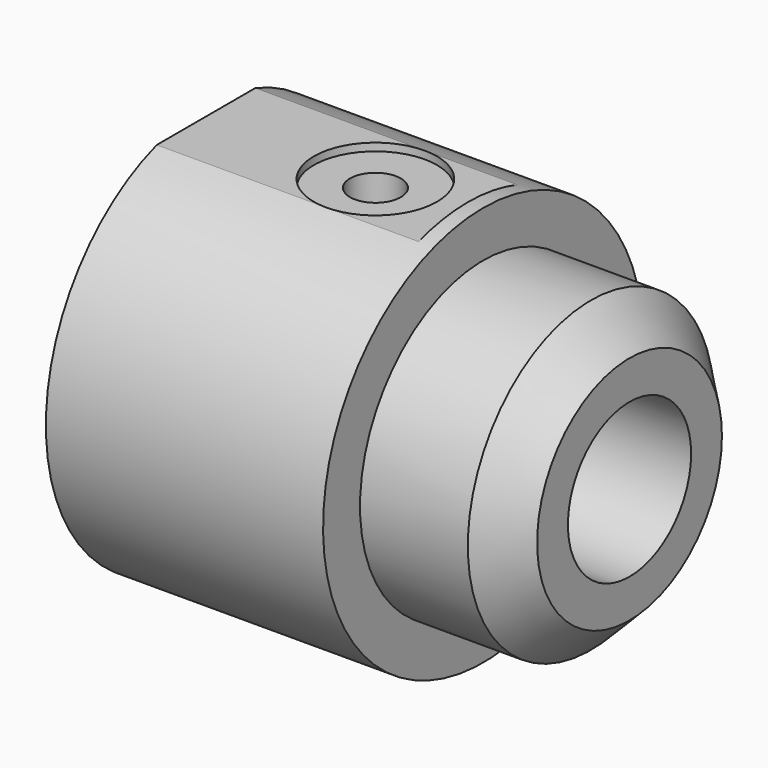
from build123d import *

# Parameters (mm, degrees)
F3_D      = 3.3
F3_DEPTH  = 7
F3_TIP    = 0.9914200214
F4_R      = 10
F4_R_2    = 5
F5_DEPTH  = 9.5
F6_SIZE   = 2.5
F8_DEPTH  = 17
F10_D     = 3.3
F10_DEPTH = 5.2
F10_TIP   = 0.9914200214
F11_R     = 4
F12_DEPTH = 0.5
F14_D     = 3.3
F14_DEPTH = 5.2
F14_TIP   = 0.9914200214
F15_R     = 4
F16_DEPTH = 0.5


with BuildPart() as f1:
    # F0 (on Front) → F1 (revolve)
    with BuildSketch(Plane.XZ):
        Polygon((-20, 4), (0, 4), (0, 13), (-18, 13), (-18, 6), (-20, 6), align=None)
    revolve(axis=Axis((-7.6375159387, 0, 0), (-1, 0, 0)))

    # F3
    with Locations(Plane(origin=(-18, 0, 0), x_dir=(0, -1, 0), z_dir=(-1, 0, 0))):
        with Locations((-7, 7), (7, 7), (-7, -7), (7, -7)):
            Hole(F3_D / 2, depth=F3_DEPTH)
            with Locations((0, 0, -(F3_DEPTH + F3_TIP / 2))):  # 118° drill point
                Cone(0, F3_D / 2, F3_TIP, mode=Mode.SUBTRACT)

    # F4 (on face) → F5 (join)
    with BuildSketch(Plane.YZ):
        Circle(F4_R)
        Circle(F4_R_2, mode=Mode.SUBTRACT)
    extrude(amount=F5_DEPTH)

    # F6
    f6_edges = [f1.edges().sort_by_distance(p)[0] for p in [
        (9.5, -10, 0),
    ]]
    chamfer(f6_edges, length=F6_SIZE)

    # F7 (on face) → F8 (cut)
    with BuildSketch(Plane(origin=(-18, 0, 0), x_dir=(0, -1, 0), z_dir=(-1, 0, 0))):
        with BuildLine():
            Line((-4, 12.3693168769), (4, 12.3693168769))
            ThreePointArc((4, 12.3693168769), (0, 13), (-4, 12.3693168769))
        make_face()
        with BuildLine():
            Line((4, -12.3693168769), (-4, -12.3693168769))
            ThreePointArc((-4, -12.3693168769), (0, -13), (4, -12.3693168769))
        make_face()
    extrude(amount=-F8_DEPTH, mode=Mode.SUBTRACT)

    # F10
    with Locations(Plane.XY.offset(12.3693168769)):
        with Locations((-7, 0)):
            Hole(F10_D / 2, depth=F10_DEPTH)
            with Locations((0, 0, -(F10_DEPTH + F10_TIP / 2))):  # 118° drill point
                Cone(0, F10_D / 2, F10_TIP, mode=Mode.SUBTRACT)

    # F11 (on face) → F12 (cut)
    with BuildSketch(Plane.XY.offset(12.3693168769)):
        with Locations((-7, 0)):
            Circle(F11_R)
    extrude(amount=-F12_DEPTH, mode=Mode.SUBTRACT)

    # F14
    with Locations(Plane(origin=(0, 0, -12.3693168769), x_dir=(1, 0, 0), z_dir=(0, 0, -1))):
        with Locations((-7, -0.0519943278)):
            Hole(F14_D / 2, depth=F14_DEPTH)
            with Locations((0, 0, -(F14_DEPTH + F14_TIP / 2))):  # 118° drill point
                Cone(0, F14_D / 2, F14_TIP, mode=Mode.SUBTRACT)

    # F15 (on face) → F16 (cut)
    with BuildSketch(Plane(origin=(0, 0, -12.3693168769), x_dir=(1, 0, 0), z_dir=(0, 0, -1))):
        with Locations((-7, -0.0519943278)):
            Circle(F15_R)
    extrude(amount=-F16_DEPTH, mode=Mode.SUBTRACT)


solid = f1.part
